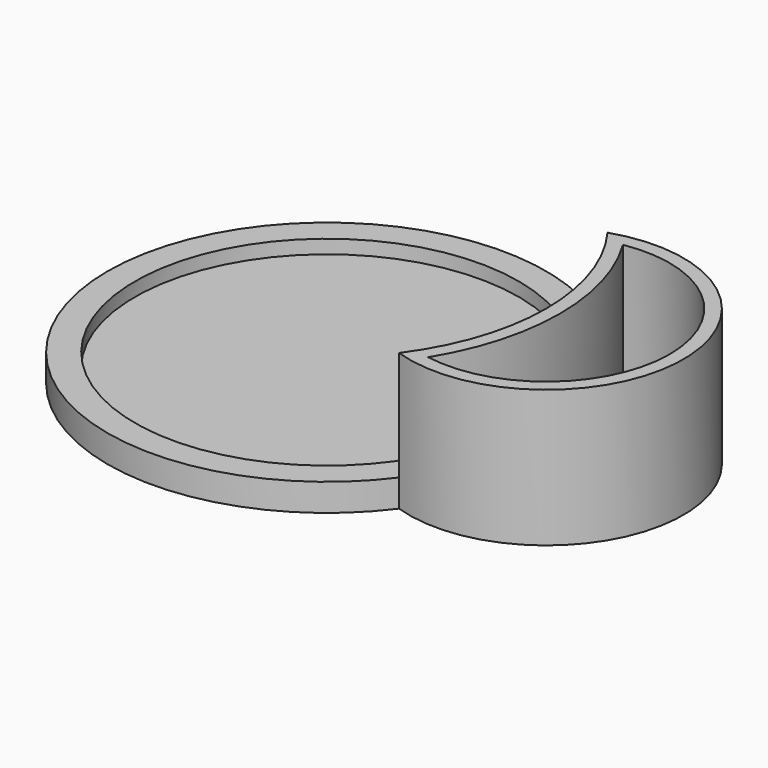
from build123d import *

# Parameters (mm, degrees)
F1_DEPTH = 25
F0_R     = 35
F2_DEPTH = 5
F3_DEPTH = 2.5
F4_DEPTH = 2.5


with BuildPart() as f1:
    # F0 (on Top) → F1 (new body)
    with BuildSketch(Plane.XY):
        with BuildLine():
            ThreePointArc((32.169506, 23.772314), (37.991974, 12.514387), (40, 0))
            ThreePointArc((40, 0), (37.991974, -12.514387), (32.169506, -23.772314))
            ThreePointArc((32.169506, -23.772314), (65.028774, 0), (32.169506, 23.772314))
        make_face()
        with BuildLine():
            ThreePointArc((36.233804, 22.211741), (62.528774, 0), (36.233804, -22.211741))
            ThreePointArc((36.233804, -22.211741), (42.5, 0), (36.233804, 22.211741))
        make_face(mode=Mode.SUBTRACT)
    extrude(amount=F1_DEPTH)

    # F0 (on Top) → F2 (join)
    with BuildSketch(Plane.XY):
        with BuildLine():
            ThreePointArc((32.169506, -23.772314), (37.991974, -12.514387), (40, 0))
            ThreePointArc((40, 0), (37.991974, 12.514387), (32.169506, 23.772314))
            ThreePointArc((32.169506, 23.772314), (-40, 0), (32.169506, -23.772314))
        make_face()
        Circle(F0_R, mode=Mode.SUBTRACT)
    extrude(amount=F2_DEPTH)

    # F0 (on Top) → F3 (join)
    with BuildSketch(Plane.XY):
        Circle(F0_R)
    extrude(amount=F3_DEPTH)

    # F0 (on Top) → F4 (join)
    with BuildSketch(Plane.XY):
        with BuildLine():
            ThreePointArc((36.233804, 22.211741), (42.5, 0), (36.233804, -22.211741))
            ThreePointArc((36.233804, -22.211741), (62.528774, 0), (36.233804, 22.211741))
        make_face()
    extrude(amount=F4_DEPTH)


solid = f1.part
